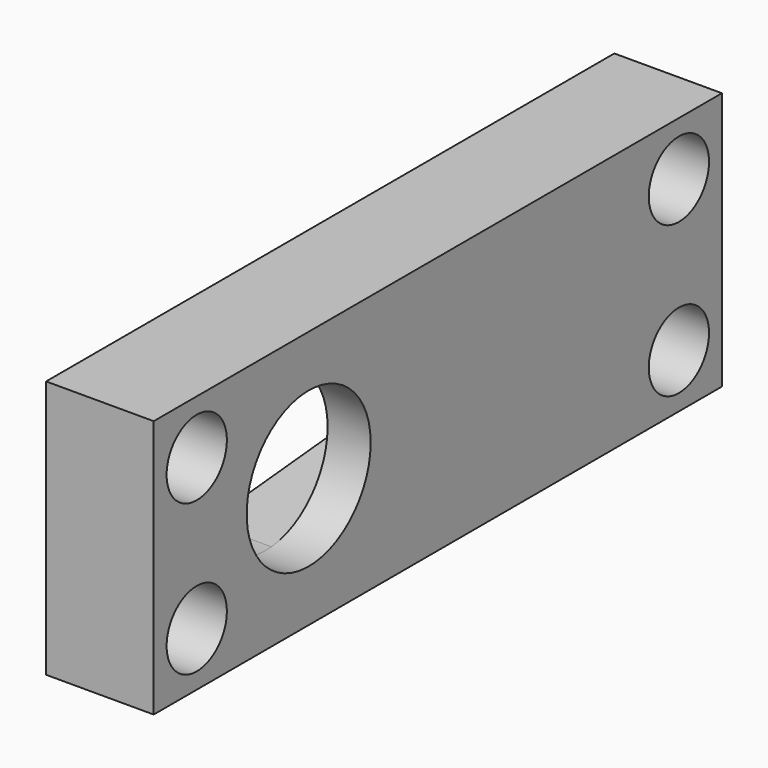
from build123d import *

# Parameters (mm, degrees)
SKETCH077_W     = 33
SKETCH077_H     = 12
SKETCH077_R     = 1.75
PAD042_DEPTH    = 5
POCKET029_DEPTH = 3
SKETCH079_R     = 3.6
POCKET030_DEPTH = 5


with BuildPart() as part:
    # Sketch077 → Pad042 (new body)
    with BuildSketch(Plane.YZ):
        with Locations((16.5, 6)):
            Rectangle(SKETCH077_W, SKETCH077_H)
        with Locations((2.5, 9.5)):
            Circle(SKETCH077_R, mode=Mode.SUBTRACT)
        with Locations((2.5, 2.5)):
            Circle(SKETCH077_R, mode=Mode.SUBTRACT)
        with Locations((30.5, 9.5)):
            Circle(SKETCH077_R, mode=Mode.SUBTRACT)
        with Locations((30.5, 2.5)):
            Circle(SKETCH077_R, mode=Mode.SUBTRACT)
    extrude(amount=PAD042_DEPTH)

    # Sketch078 → Pocket029 (cut)
    with BuildSketch(Plane(origin=(0, 9, 6), x_dir=(0, 0, -1), z_dir=(1, 0, 0))):
        with BuildLine():
            ThreePointArc((-3.584145, 0.3375), (0, -3.6), (3.584145, 0.3375))
            Line((2.090751, 16.196875), (3.584145, 0.3375))
            ThreePointArc((2.090751, 16.196875), (0, 18.1), (-2.090751, 16.196875))
            Line((-2.090751, 16.196875), (-3.584145, 0.3375))
        make_face()
    extrude(amount=POCKET029_DEPTH, mode=Mode.SUBTRACT)

    # Sketch079 → Pocket030 (cut)
    with BuildSketch(Plane(origin=(0, 9, 6), x_dir=(0, 1, 0), z_dir=(1, 0, 0))):
        Circle(SKETCH079_R)
    extrude(amount=POCKET030_DEPTH, mode=Mode.SUBTRACT)


with BuildPart() as part_1:
    # Body012 placement: moved
    add(part.part.moved(Location((10, -22, 16.4))))


solid = part_1.part
